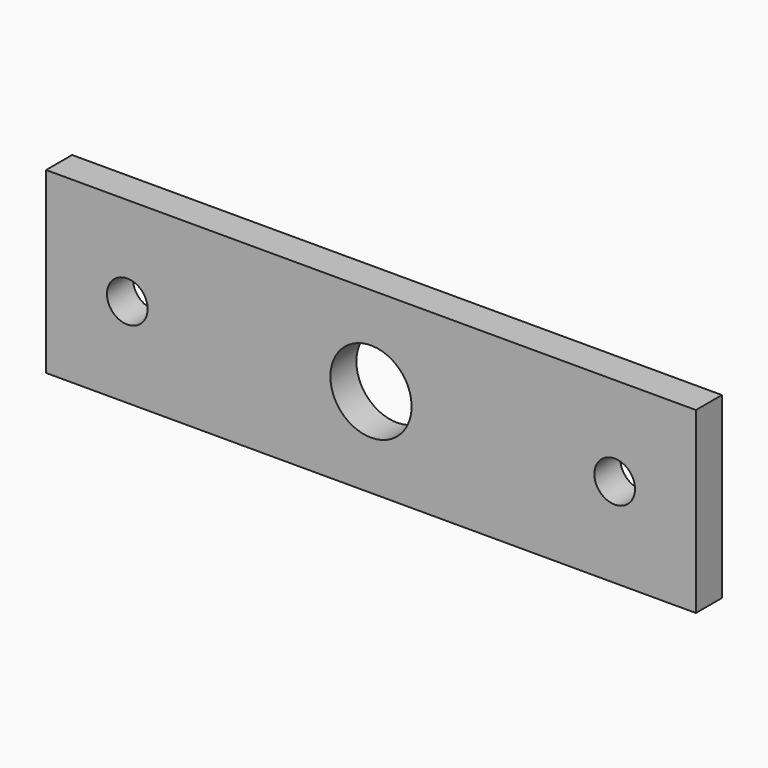
from build123d import *

# Parameters (mm, degrees)
F0_W     = 101.6
F0_H     = 27.94
F1_DEPTH = 5.08
F3_D     = 6.35
F5_D     = 12.7


with BuildPart() as f1:
    # F0 (on Front) → F1 (new body)
    with BuildSketch(Plane.XZ):
        Rectangle(F0_W, F0_H)
    extrude(amount=F1_DEPTH)

    # F3 (through all)
    with Locations(Plane.XZ.offset(5.08)):
        with Locations((-38.1, 0), (38.1, 0)):
            Hole(F3_D / 2)

    # F5 (through all)
    with Locations(Plane.XZ.offset(5.08)):
        with Locations((0, 0)):
            Hole(F5_D / 2)


solid = f1.part
